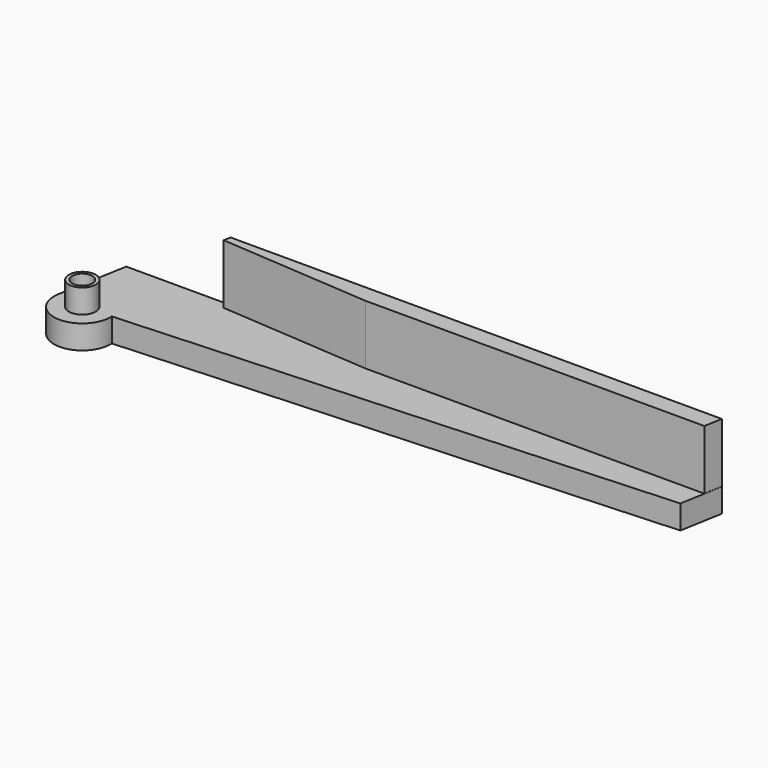
from build123d import *

# Parameters (mm, degrees)
SKETCH001_R  = 1.7
PAD001_DEPTH = 4
PAD003_DEPTH = 10
SKETCH_R     = 2.25
SKETCH_R_2   = 1.7
PAD_DEPTH    = 4


with BuildPart() as part:
    # Sketch001 → Pad001 (new body)
    with BuildSketch(Plane.XY):
        with BuildLine():
            ThreePointArc((-4.677837, 0.824829), (-0.282136, -4.741614), (4.742642, 0.26429))
            Line((96.121215, 5.356476), (4.742642, 0.26429))
            Line((97.380811, 12.5), (96.121215, 5.356476))
            Line((-2.619189, 12.5), (97.380811, 12.5))
            Line((-4.677837, 0.824829), (-2.619189, 12.5))
        make_face()
        Circle(SKETCH001_R, mode=Mode.SUBTRACT)
    extrude(amount=-PAD001_DEPTH)

    # Sketch004 → Pad003 (join)
    with BuildSketch(Plane.XY):
        Polygon((14.896796, 12.5), (97.363709, 12.5), (96.825632, 9.5), (39.982536, 9.5), (14.684946, 11.318848), align=None)
    extrude(amount=PAD003_DEPTH)

    # Sketch → Pad (join)
    with BuildSketch(Plane.XY):
        Circle(SKETCH_R)
        Circle(SKETCH_R_2, mode=Mode.SUBTRACT)
    extrude(amount=PAD_DEPTH)


solid = part.part
